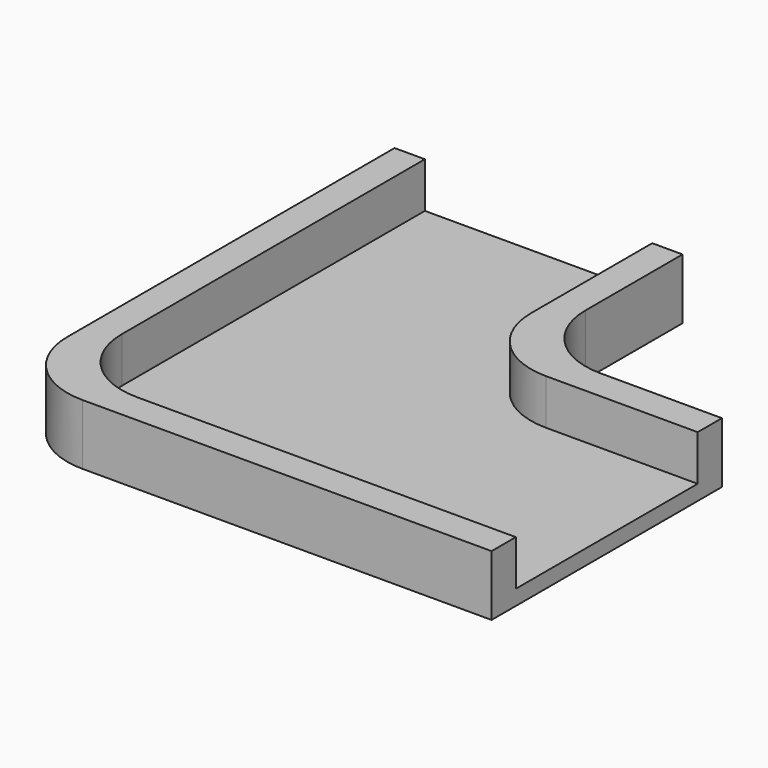
from build123d import *

# Parameters (mm, degrees)
F1_DEPTH = 1
F2_DEPTH = 4
F3_R     = 5


with BuildPart() as f1:
    # F0 (on Top) → F1 (new body)
    with BuildSketch(Plane.XY):
        Polygon((-15, 0), (0, 0), (15, 0), (15, 15), (0, 15), (0, 30), (-15, 30), align=None)
    extrude(amount=F1_DEPTH)

    # F0 (on Top) → F2 (join)
    with BuildSketch(Plane.XY):
        Polygon((15, 0), (0, 0), (-15, 0), (-15, 30), (-17, 30), (-17, -2), (0, -2), (15, -2), align=None)
        Polygon((0, 15), (15, 15), (15, 17), (2, 17), (2, 30), (0, 30), align=None)
    extrude(amount=F2_DEPTH)

    # F3
    f3_edges = [f1.edges().sort_by_distance(p)[0] for p in [
        (0, 15, 2.5),
        (-17, -2, 2),
        (2, 17, 2),
        (-15, 0, 2.5),
    ]]
    fillet(f3_edges, radius=F3_R)


solid = f1.part
